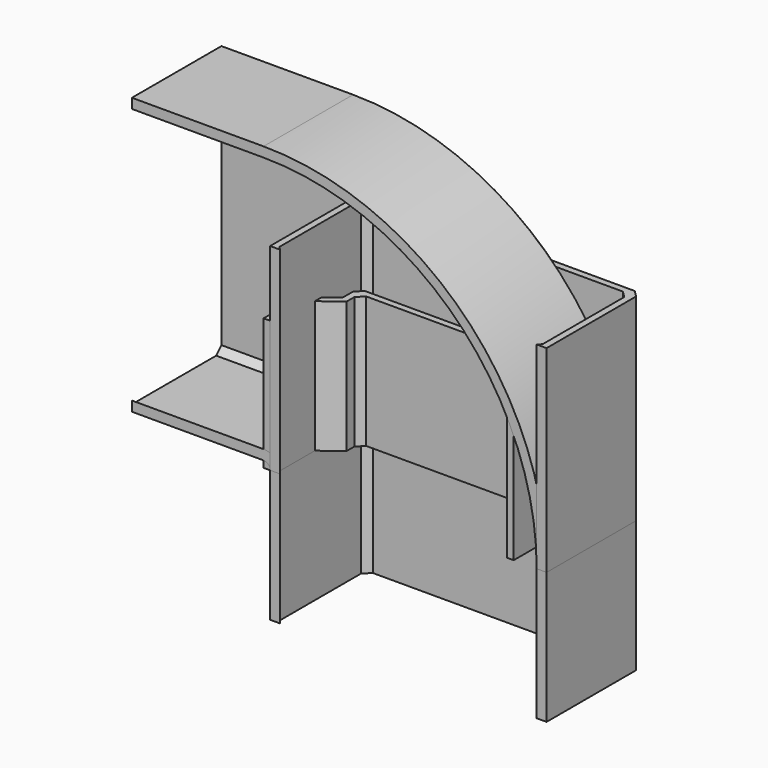
from build123d import *

# Parameters (mm, degrees)
PAD_DEPTH        = 20
CHAMFER_SIZE     = 1
REVOLUTION_ANGLE = -90
PAD001_DEPTH     = 20
PAD002_DEPTH     = 20
CHAMFER001_SIZE  = 1
PAD003_DEPTH     = 30
CHAMFER002_SIZE  = 1


with BuildPart() as clampbody:
    # Sketch → Pad (new body)
    with BuildSketch(Plane.XY):
        Polygon((0, 0), (0, 7), (4, 10), (4, 13), (34, 13), (34, 10), (38, 7), (38, 0), (37, 0), (37, 6.5), (33, 9.5), (33, 12), (5, 12), (5, 9.5), (1, 6.5), (1, 0), align=None)
    extrude(amount=PAD_DEPTH)

    # Chamfer
    chamfer_edges = [clampbody.edges().sort_by_distance(p)[0] for p in [
        (4, 13, 10),
        (0, 7, 10),
        (34, 13, 10),
        (38, 7, 10),
        (1, 6.5, 10),
        (5, 12, 10),
        (33, 12, 10),
        (37, 6.5, 10),
    ]]
    chamfer(chamfer_edges, length=CHAMFER_SIZE)


with BuildPart() as sidecornerbody:
    # Sketch001 → Revolution (revolve)
    with BuildSketch(Plane.XY):
        Polygon((2.5, 0), (2, 0.5), (2, 16), (3, 17), (41, 17), (42, 16), (42, 0.5), (41.5, 0), (43, 0), (43, 18), (1, 18), (1, 0), align=None)
    revolve(axis=Axis((0, 0, 0), (0, 1, 0)), revolution_arc=REVOLUTION_ANGLE)

    # Binder → Pad001 (new body)
    with BuildSketch(Plane(origin=(0, 13.471953, 22), x_dir=(0, 1, 0), z_dir=(-1, 0, 0))):
        Polygon((3.528047, 19), (3.528047, -19), (2.528047, -20), (-12.971953, -20), (-13.471953, -19.5), (-13.471953, -21), (4.528047, -21), (4.528047, 21), (-13.471953, 21), (-13.471953, 19.5), (-12.971953, 20), (2.528047, 20), align=None)
    extrude(amount=PAD001_DEPTH)

    # Sketch001 → Pad002 (join)
    with BuildSketch(Plane.XY):
        Polygon((2.5, 0), (2, 0.5), (2, 16), (3, 17), (41, 17), (42, 16), (42, 0.5), (41.5, 0), (43, 0), (43, 18), (1, 18), (1, 0), align=None)
    extrude(amount=-PAD002_DEPTH)

    # Chamfer001
    chamfer001_edges = [sidecornerbody.edges().sort_by_distance(p)[0] for p in [
        (43, 18, -10),
        (1, 18, -10),
    ]]
    chamfer(chamfer001_edges, length=CHAMFER001_SIZE)


with BuildPart() as connectorbody:
    # Binder001 → Pad003 (new body)
    with BuildSketch(Plane(origin=(22, 13.471953, 0), x_dir=(0, 1, 0), z_dir=(0, 0, 1))):
        Polygon((3.528047, 19), (3.528047, -19), (2.528047, -20), (-12.971953, -20), (-13.471953, -19.5), (-13.471953, -21), (4.528047, -21), (4.528047, 21), (-13.471953, 21), (-13.471953, 19.5), (-12.971953, 20), (2.528047, 20), align=None)
    extrude(amount=PAD003_DEPTH)

    # Chamfer002
    chamfer002_edges = [connectorbody.edges().sort_by_distance(p)[0] for p in [
        (1, 18, 15),
        (43, 18, 15),
    ]]
    chamfer(chamfer002_edges, length=CHAMFER002_SIZE)


solid = Compound([clampbody.part, sidecornerbody.part, connectorbody.part])
